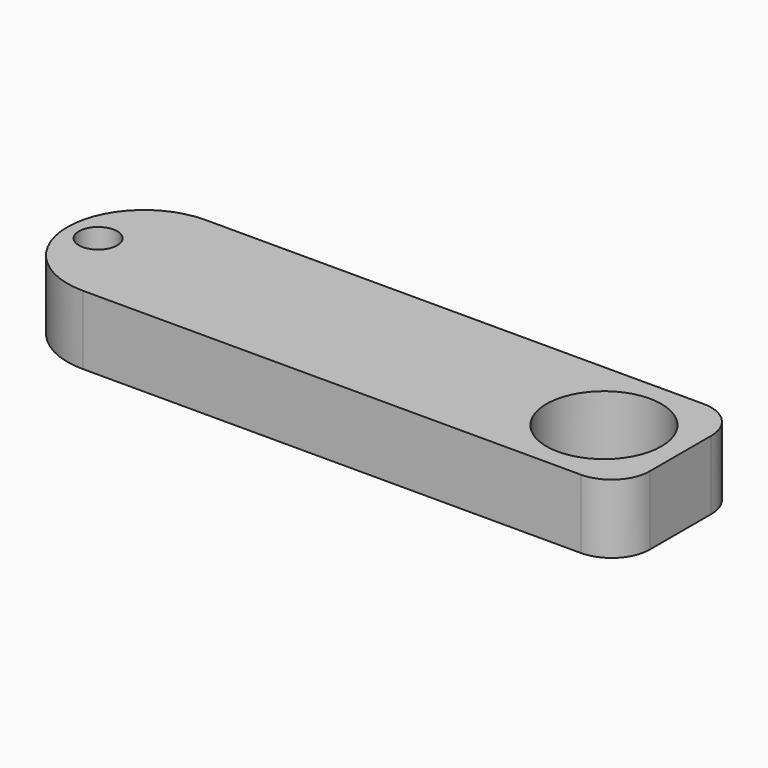
from build123d import *

# Parameters (mm, degrees)
F0_R     = 3.175
F0_R_2   = 9.525
F1_DEPTH = 11.43


with BuildPart() as f1:
    # F0 (on Top) → F1 (new body)
    with BuildSketch(Plane.XY):
        with BuildLine():
            Line((44.45, 12.7), (-38.1, 12.7))
            ThreePointArc((-38.1, 12.7), (-47.080256, 8.980256), (-50.8, 0))
            ThreePointArc((-50.8, 0), (-47.080256, -8.980256), (-38.1, -12.7))
            Line((-38.1, -12.7), (44.45, -12.7))
            ThreePointArc((44.45, -12.7), (48.940128, -10.840128), (50.8, -6.35))
            Line((50.8, -6.35), (50.8, 6.35))
            ThreePointArc((50.8, 6.35), (48.940128, 10.840128), (44.45, 12.7))
        make_face()
        with Locations((-45.72, 0)):
            Circle(F0_R, mode=Mode.SUBTRACT)
        with Locations((38.1, 0)):
            Circle(F0_R_2, mode=Mode.SUBTRACT)
    extrude(amount=F1_DEPTH)


solid = f1.part
